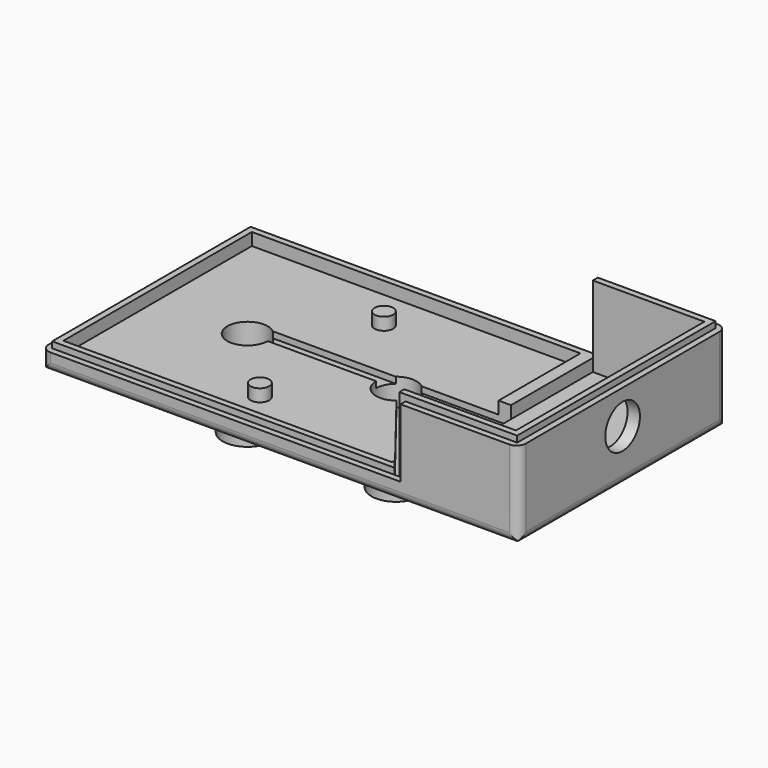
from build123d import *

# Parameters (mm, degrees)
SKETCH_W        = 57
SKETCH_H        = 42
PAD_DEPTH       = 2
SKETCH001_W     = 57
SKETCH001_H     = 42
SKETCH001_W_2   = 53
SKETCH001_H_2   = 38
PAD001_DEPTH    = 2
SKETCH002_R     = 4
PAD002_DEPTH    = 12
SKETCH003_R     = 3.25
POCKET_DEPTH    = 14
SKETCH004_R     = 1.5
PAD003_DEPTH    = 2
POCKET001_DEPTH = 3
SKETCH006_W     = 26.076656
SKETCH006_H     = 2.5
POCKET002_DEPTH = 1
POCKET003_DEPTH = 1
PAD004_DEPTH    = 1
PAD005_DEPTH    = 17
PAD006_DEPTH    = 1
SKETCH011_W     = 42
SKETCH011_H     = 14
PAD007_DEPTH    = 1
SKETCH012_R     = 3.5
POCKET004_DEPTH = 2
SKETCH013_W     = 18
SKETCH013_H     = 38
PAD008_DEPTH    = 1
SKETCH014_W     = 0.782134
SKETCH014_H     = 1
PAD009_DEPTH    = 2
POCKET005_DEPTH = 15
POCKET006_DEPTH = 15
POCKET007_DEPTH = 3
POCKET008_DEPTH = 3
POCKET009_DEPTH = 80
POCKET010_DEPTH = 80
POCKET011_DEPTH = 42
POCKET012_DEPTH = 42


with BuildPart() as part:
    # Sketch → Pad (new body)
    with BuildSketch(Plane.XY):
        Rectangle(SKETCH_W, SKETCH_H)
    extrude(amount=PAD_DEPTH)

    # Sketch001 (on Face6 of Pad) → Pad001 (join)
    with BuildSketch(Plane.XY.offset(2)):
        Rectangle(SKETCH001_W, SKETCH001_H)
        Rectangle(SKETCH001_W_2, SKETCH001_H_2, mode=Mode.SUBTRACT)
    extrude(amount=PAD001_DEPTH)

    # Sketch002 (on Face4 of Pad001) → Pad002 (join)
    with BuildSketch(Plane(origin=(0, 0, 0), x_dir=(1, 0, 0), z_dir=(0, 0, -1))):
        with Locations((-12, 0)):
            Circle(SKETCH002_R)
    pad002 = extrude(amount=PAD002_DEPTH)

    # Sketch003 (on Face12 of Pad002) → Pocket (cut)
    with BuildSketch(Plane(origin=(0, 0, -12), x_dir=(1, 0, 0), z_dir=(0, 0, -1))):
        with Locations((-12, 0)):
            Circle(SKETCH003_R)
    pocket = extrude(amount=-POCKET_DEPTH, mode=Mode.SUBTRACT)

    # Mirrored: Pad002 across Sketch002 V_Axis
    add(pad002.mirror(Plane(origin=(0, 0, 0), x_dir=(0, 0, -1), z_dir=(1, 0, 0))))

    # Mirrored001: Pocket across Sketch003 V_Axis
    add(pocket.mirror(Plane(origin=(0, 0, -12), x_dir=(0, 0, -1), z_dir=(1, 0, 0))), mode=Mode.SUBTRACT)

    # Sketch004 (on Face21 of Mirrored001) → Pad003 (join)
    with BuildSketch(Plane.XY.offset(2)):
        with Locations((0, 12.5)):
            Circle(SKETCH004_R)
    pad003 = extrude(amount=PAD003_DEPTH)

    # Mirrored002: Pad003 across Sketch004 H_Axis
    add(pad003.mirror(Plane(origin=(0, 0, 2), x_dir=(0, 0, 1), z_dir=(0, 1, 0))))

    # Sketch005 (on Face21 of Mirrored002) → Pocket001 (cut)
    with BuildSketch(Plane.XY.offset(4)):
        with BuildLine():
            ThreePointArc((14.048565, -2.52307), (15.249949, -0.018175), (14.076656, 2.5))
            Line((14.076656, 2.5), (28.5, 2.5))
            Line((28.5, 2.5), (28.5, -21))
            Line((28.5, -21), (14.048565, -2.52307))
        make_face()
    extrude(amount=-POCKET001_DEPTH, mode=Mode.SUBTRACT)

    # Sketch006 (on Face17 of Pocket001) → Pocket002 (cut)
    with BuildSketch(Plane.XY.offset(2)):
        with Locations((1.038328, 1.25)):
            Rectangle(SKETCH006_W, SKETCH006_H)
    extrude(amount=-POCKET002_DEPTH, mode=Mode.SUBTRACT)

    # Sketch007 (on Face13 of Pocket002) → Pocket003 (cut)
    with BuildSketch(Plane.XY.offset(4)):
        Polygon((28.5, 21), (28.5, 20), (-27.5, 20), (-27.5, -20), (28.5, -20), (28.5, -21), (-28.5, -21), (-28.5, 21), align=None)
    extrude(amount=-POCKET003_DEPTH, mode=Mode.SUBTRACT)

    # Sketch008 (on Face3 of Pocket003) → Pad004 (join)
    with BuildSketch(Plane.YZ.offset(28.5)):
        Polygon((-19, 1), (-19, 15), (-20, 15), (-20, 4), (-20, 3), (-21, 3), (-21, 0), (21, 0), (21, 3), (20, 3), (20, 15), (19, 15), (19, 1), align=None)
    extrude(amount=PAD004_DEPTH)

    # Sketch009 (on Face10 of Pad004) → Pad005 (join)
    with BuildSketch(Plane.YZ.offset(29.5)):
        Polygon((-19, 15), (-20, 15), (-20, 14), (-21, 14), (-21, 0), (21, 0), (21, 14), (20, 14), (20, 15), (19, 15), (19, 1), (-19, 1), align=None)
    extrude(amount=PAD005_DEPTH)

    # Sketch010 (on Face20 of Pad005) → Pad006 (join)
    with BuildSketch(Plane.YZ.offset(46.5)):
        Polygon((-20, 15), (20, 15), (20, 14), (21, 14), (21, 0), (-21, 0), (-21, 14), (-20, 14), align=None)
    extrude(amount=PAD006_DEPTH)

    # Sketch011 (on Face34 of Pad006) → Pad007 (join)
    with BuildSketch(Plane.YZ.offset(47.5)):
        with Locations((0, 7)):
            Rectangle(SKETCH011_W, SKETCH011_H)
    extrude(amount=PAD007_DEPTH)

    # Sketch012 (on Face51 of Pad007) → Pocket004 (cut)
    with BuildSketch(Plane.YZ.offset(48.5)):
        with Locations((0, 8.5)):
            Circle(SKETCH012_R)
    extrude(amount=-POCKET004_DEPTH, mode=Mode.SUBTRACT)

    # Sketch013 (on Face77 of Pocket004) → Pad008 (join)
    with BuildSketch(Plane.XY.offset(1)):
        with Locations((37.5, 0)):
            Rectangle(SKETCH013_W, SKETCH013_H)
    extrude(amount=PAD008_DEPTH)

    # Sketch014 (on Face40 of Pad008) → Pad009 (join)
    with BuildSketch(Plane.XY.offset(1)):
        with Locations((28.108933, -20.5)):
            Rectangle(SKETCH014_W, SKETCH014_H)
    extrude(amount=PAD009_DEPTH)

    # Sketch015 (on Face50 of Pad009) → Pocket005 (cut)
    with BuildSketch(Plane.XY.offset(14)):
        with BuildLine():
            ThreePointArc((47.018921, -21), (48.067334, -20.554064), (48.5, -19.500105))
            Line((48.5, -19.500105), (48.5, -21))
            Line((48.5, -21), (47.018921, -21))
        make_face()
    extrude(amount=-POCKET005_DEPTH, mode=Mode.SUBTRACT)

    # Sketch016 (on Face51 of Pocket005) → Pocket006 (cut)
    with BuildSketch(Plane.XY.offset(14)):
        with BuildLine():
            ThreePointArc((48.5, 19.5), (48.060658, 20.560658), (47, 21))
            Line((47, 21), (48.5, 21))
            Line((48.5, 21), (48.5, 19.5))
        make_face()
    extrude(amount=-POCKET006_DEPTH, mode=Mode.SUBTRACT)

    # Sketch017 (on Face13 of Pocket006) → Pocket007 (cut)
    with BuildSketch(Plane.XY.offset(3)):
        with BuildLine():
            ThreePointArc((-27, 21), (-28.060664, 20.560656), (-28.5, 19.499989))
            Line((-28.5, 21), (-28.5, 19.499989))
            Line((-27, 21), (-28.5, 21))
        make_face()
    extrude(amount=-POCKET007_DEPTH, mode=Mode.SUBTRACT)

    # Sketch018 (on Face13 of Pocket007) → Pocket008 (cut)
    with BuildSketch(Plane.XY.offset(3)):
        with BuildLine():
            ThreePointArc((-28.5, -19.466143), (-28.035422, -20.547385), (-26.949118, -21))
            Line((-28.5, -21), (-26.949118, -21))
            Line((-28.5, -19.466143), (-28.5, -21))
        make_face()
    extrude(amount=-POCKET008_DEPTH, mode=Mode.SUBTRACT)

    # Sketch019 (on Face60 of Pocket008) → Pocket009 (cut)
    with BuildSketch(Plane.YZ.offset(48.5)):
        with BuildLine():
            Line((-21.000105, 1.5), (-21.000105, 0))
            Line((-21.000105, 0), (-19.500105, 0))
            ThreePointArc((-21.000105, 1.5), (-20.560765, 0.43934), (-19.500105, 0))
        make_face()
    extrude(amount=-POCKET009_DEPTH, mode=Mode.SUBTRACT)

    # Sketch020 (on Face36 of Pocket009) → Pocket010 (cut)
    with BuildSketch(Plane.YZ.offset(48.5)):
        with BuildLine():
            Line((19.5, 0), (21, 0))
            Line((21, 0), (21, 1.5))
            ThreePointArc((19.5, 0), (20.56066, 0.43934), (21, 1.5))
        make_face()
    extrude(amount=-POCKET010_DEPTH, mode=Mode.SUBTRACT)

    # Sketch021 (on Face13 of Pocket010) → Pocket011 (cut)
    with BuildSketch(Plane(origin=(0, 21, 0), x_dir=(-1, 0, 0), z_dir=(0, 1, 0))):
        with BuildLine():
            Line((-48.5, 1.5), (-48.5, 0))
            Line((-47, 0), (-48.5, 0))
            ThreePointArc((-48.5, 1.5), (-48.06066, 0.43934), (-47, 0))
        make_face()
    extrude(amount=-POCKET011_DEPTH, mode=Mode.SUBTRACT)

    # Sketch022 (on Face4 of Pocket011) → Pocket012 (cut)
    with BuildSketch(Plane(origin=(0, 21, 0), x_dir=(-1, 0, 0), z_dir=(0, 1, 0))):
        with BuildLine():
            Line((28.5, 1.5), (28.5, 0))
            Line((28.5, 0), (27, 0))
            ThreePointArc((27, 0), (28.06066, 0.43934), (28.5, 1.5))
        make_face()
    extrude(amount=-POCKET012_DEPTH, mode=Mode.SUBTRACT)


solid = part.part
